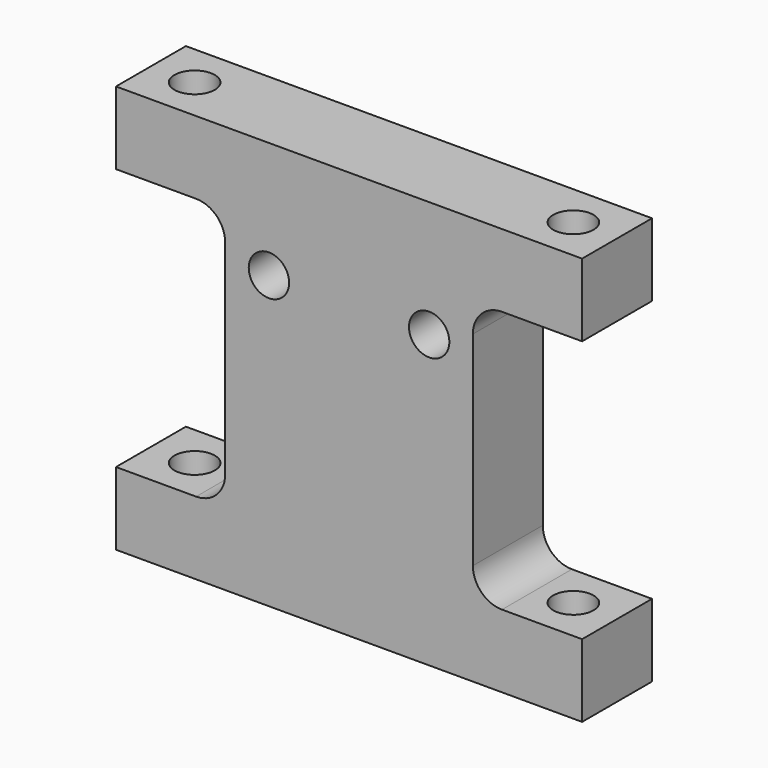
from build123d import *

# Parameters (mm, degrees)
F1_DEPTH = 19.05
F2_R     = 6.35
F4_D     = 8.8
F5_D     = 8.8


with BuildPart() as f1:
    # F0 (on Front) → F1 (new body)
    with BuildSketch(Plane.XZ):
        Polygon((3.7801079915, 50.9944110171), (-47.0198920085, 50.9944110171), (-47.0198920085, 35.1194110171), (-23.2073920085, 35.1194110171), (-23.2073920085, 6.5444110171), (-23.2073920085, -22.0305889829), (-47.0198920085, -22.0305889829), (-47.0198920085, -37.9055889829), (54.5801079915, -37.9055889829), (54.5801079915, -22.0305889829), (30.7676079915, -22.0305889829), (30.7676079915, 6.5444110171), (30.7676079915, 35.1194110171), (54.5801079915, 35.1194110171), (54.5801079915, 50.9944110171), align=None)
        Polygon((3.7801079915, 50.9944110171), (-47.0198920085, 50.9944110171), (-47.0198920085, 35.1194110171), (-23.2073920085, 35.1194110171), (-23.2073920085, 6.5444110171), (-23.2073920085, -22.0305889829), (-47.0198920085, -22.0305889829), (-47.0198920085, -37.9055889829), (54.5801079915, -37.9055889829), (54.5801079915, -22.0305889829), (30.7676079915, -22.0305889829), (30.7676079915, 6.5444110171), (30.7676079915, 35.1194110171), (54.5801079915, 35.1194110171), (54.5801079915, 50.9944110171), align=None)
        Polygon((3.7801079915, 50.9944110171), (-47.0198920085, 50.9944110171), (-47.0198920085, 35.1194110171), (-23.2073920085, 35.1194110171), (-23.2073920085, 6.5444110171), (-23.2073920085, -22.0305889829), (-47.0198920085, -22.0305889829), (-47.0198920085, -37.9055889829), (54.5801079915, -37.9055889829), (54.5801079915, -22.0305889829), (30.7676079915, -22.0305889829), (30.7676079915, 6.5444110171), (30.7676079915, 35.1194110171), (54.5801079915, 35.1194110171), (54.5801079915, 50.9944110171), align=None)
        Polygon((3.7801079915, 50.9944110171), (-47.0198920085, 50.9944110171), (-47.0198920085, 35.1194110171), (-23.2073920085, 35.1194110171), (-23.2073920085, 6.5444110171), (-23.2073920085, -22.0305889829), (-47.0198920085, -22.0305889829), (-47.0198920085, -37.9055889829), (54.5801079915, -37.9055889829), (54.5801079915, -22.0305889829), (30.7676079915, -22.0305889829), (30.7676079915, 6.5444110171), (30.7676079915, 35.1194110171), (54.5801079915, 35.1194110171), (54.5801079915, 50.9944110171), align=None)
    extrude(amount=F1_DEPTH)

    # F2
    f2_edges = [f1.edges().sort_by_distance(p)[0] for p in [
        (30.767608, -9.525, -22.030589),
        (30.767608, -9.525, 35.119411),
        (-23.207392, -9.525, -22.030589),
        (-23.207392, -9.525, 35.119411),
    ]]
    fillet(f2_edges, radius=F2_R)

    # F4 (through all)
    with Locations(Plane.XY.offset(50.9944110171)):
        with Locations((-37.4948920085, -9.525), (45.0551079915, -9.525)):
            Hole(F4_D / 2)

    # F5 (through all)
    with Locations(Plane(origin=(0, 0, 0), x_dir=(1, 0, 0), z_dir=(0, 1, 0))):
        with Locations((-13.6823920085, -25.5944110171), (21.2426079915, -25.5944110171)):
            Hole(F5_D / 2)


solid = f1.part
